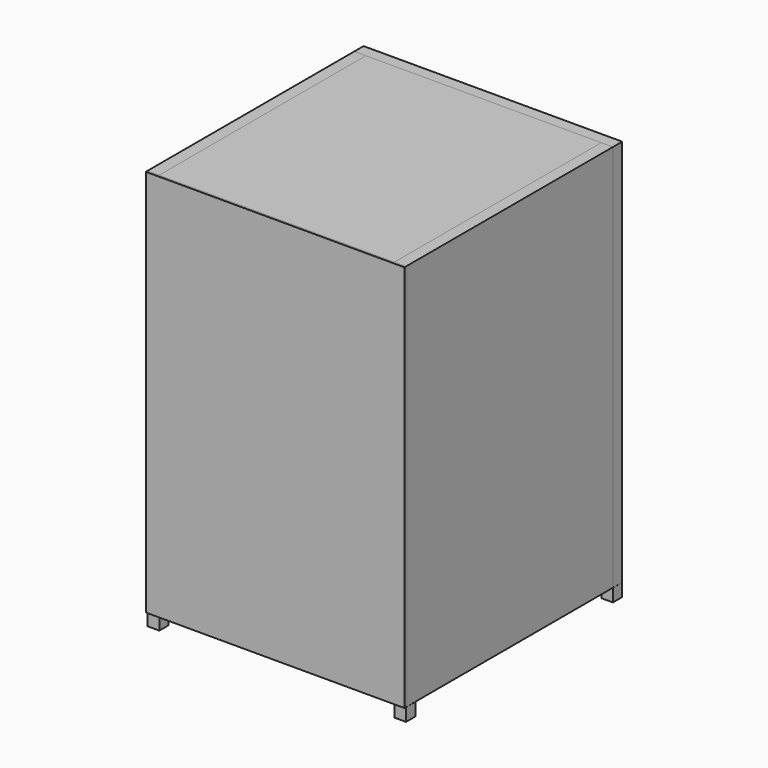
from build123d import *

# Parameters (mm, degrees)
F0_W      = 200
F0_H      = 300
F1_DEPTH  = 1.5
F2_W      = 9
F2_H      = 300
F3_DEPTH  = 200
F5_DEPTH  = 12
F7_DEPTH  = 182
F8_W      = 17.163492
F8_H      = 11.907444
F9_DEPTH  = 5
F11_DEPTH = 12
F12_W     = 200
F12_H     = 9
F13_DEPTH = 182
F14_W     = 200
F14_H     = 9
F15_DEPTH = 182
F16_W     = 9
F16_H     = 300
F17_DEPTH = 200
F18_W     = 200
F18_H     = 300
F19_DEPTH = 9
F20_W     = 9
F20_H     = 9
F21_DEPTH = 10
F22_W     = 130.7519
F22_H     = 41.840611
F23_DEPTH = 9


with BuildPart() as f1:
    # F0 (on Front) → F1 (new body)
    with BuildSketch(Plane.XZ):
        with Locations((100, 150)):
            Rectangle(F0_W, F0_H)
    extrude(amount=F1_DEPTH)


with BuildPart() as f3:
    # F2 (on face) → F3 (new body)
    with BuildSketch(Plane(origin=(0, 0, 0), x_dir=(-1, 0, 0), z_dir=(0, 1, 0))):
        with Locations((-4.5, 150)):
            Rectangle(F2_W, F2_H)
    extrude(amount=F3_DEPTH)


with BuildPart() as f5:
    # F4 (on face) → F5 (new body)
    with BuildSketch(Plane.YZ.offset(9)):
        Polygon((0, 127.78157), (0, 96.357256), (27.67759, 112.250008), align=None)
        Polygon((173.078761, 112.126425), (199.328241, 95.420043), (199.328241, 126.844356), align=None)
    extrude(amount=F5_DEPTH)


with BuildPart() as f7:
    # F6 (on face) → F7 (new body)
    with BuildSketch(Plane.YZ.offset(9)):
        Polygon((0, 127.78157), (27.67759, 112.250008), (33.364529, 119.320042), (5.686939, 134.851605), align=None)
    extrude(amount=F7_DEPTH)


with BuildPart() as f9:
    # F8 (on face) → F9 (new body)
    with BuildSketch(Plane(origin=(0, 58.912564, 104.983502), x_dir=(1, 0, 0), z_dir=(0, 0.489373, 0.872074))):
        with Locations((100.010585, -35.24943)):
            Rectangle(F8_W, F8_H)
    extrude(amount=F9_DEPTH)


with BuildPart() as f11:
    # F10 (on face) → F11 (new body)
    with BuildSketch(Plane.YZ.offset(191)):
        Polygon((0, 127.78157), (0, 96.357256), (27.67759, 112.250008), align=None)
    extrude(amount=-F11_DEPTH)


with BuildPart() as f13:
    # F12 (on face) → F13 (new body)
    with BuildSketch(Plane.YZ.offset(9)):
        with Locations((100, 295.5)):
            Rectangle(F12_W, F12_H)
    extrude(amount=F13_DEPTH)


with BuildPart() as f15:
    # F14 (on face) → F15 (new body)
    with BuildSketch(Plane.YZ.offset(9)):
        with Locations((100, 4.5)):
            Rectangle(F14_W, F14_H)
    extrude(amount=F15_DEPTH)


with BuildPart() as f17:
    # F16 (on face) → F17 (new body)
    with BuildSketch(Plane(origin=(0, 0, 0), x_dir=(-1, 0, 0), z_dir=(0, 1, 0))):
        with Locations((-195.5, 150)):
            Rectangle(F16_W, F16_H)
    extrude(amount=F17_DEPTH)


with BuildPart() as f19:
    # F18 (on face) → F19 (new body)
    with BuildSketch(Plane(origin=(0, 200, 0), x_dir=(-1, 0, 0), z_dir=(0, 1, 0))):
        with Locations((-100, 150)):
            Rectangle(F18_W, F18_H)
    extrude(amount=F19_DEPTH)

    # F22 (on face) → F23 (cut)
    with BuildSketch(Plane(origin=(0, 209, 0), x_dir=(-1, 0, 0), z_dir=(0, 1, 0))):
        with Locations((-102.516074, 51.606977)):
            Rectangle(F22_W, F22_H)
    extrude(amount=-F23_DEPTH, mode=Mode.SUBTRACT)


with BuildPart() as f21:
    # F20 (on face) → F21 (new body)
    with BuildSketch(Plane(origin=(0, 0, 0), x_dir=(1, 0, 0), z_dir=(0, 0, -1))):
        with Locations((4.5, -204.5)):
            Rectangle(F20_W, F20_H)
        with Locations((195.550859, -204.440638)):
            Rectangle(F20_W, F20_H)
        with Locations((195.586695, -4.428624)):
            Rectangle(F20_W, F20_H)
        with Locations((4.674674, -4.567612)):
            Rectangle(F20_W, F20_H)
    extrude(amount=F21_DEPTH)


solid = Compound([f1.part, f3.part, f5.part, f7.part, f9.part, f11.part, f13.part, f15.part, f17.part, f19.part, f21.part])
